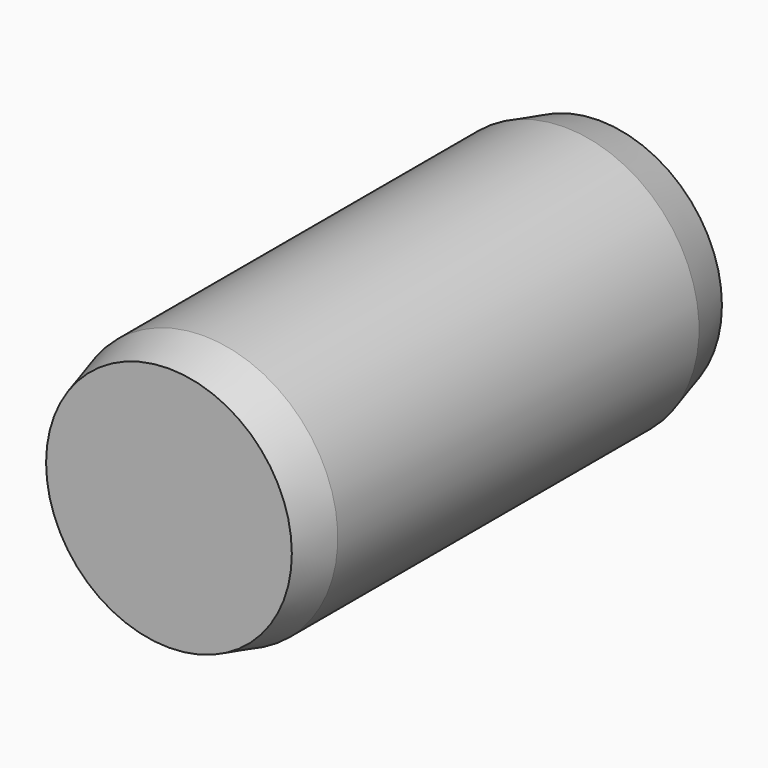
from build123d import *


with BuildPart() as part:
    # Sketch → Revolution (revolve)
    with BuildSketch(Plane.YZ):
        Polygon((0, 0), (0, 2.285641), (0.8, 2.5), (9.2, 2.5), (10, 2.285641), (10, 0), align=None)
    revolve(axis=Axis((0, 0, 0), (0, 1, 0)))


solid = part.part
